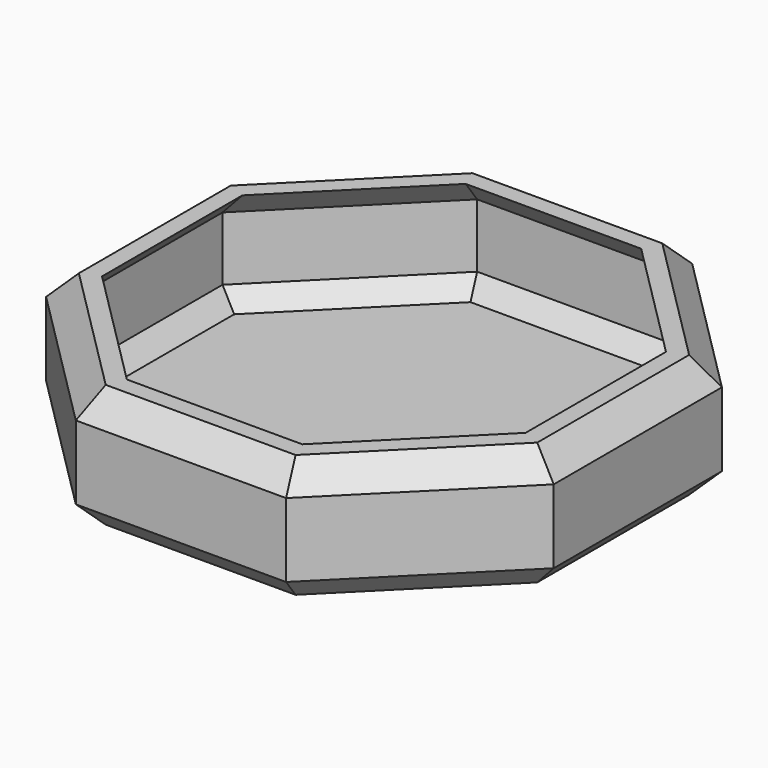
from build123d import *

# Parameters (mm, degrees)
F1_DEPTH = 25.4
F2_SIZE  = 5.08
F3_T     = -2.54


with BuildPart() as f1:
    # F0 (on Top) → F1 (new body)
    with BuildSketch(Plane.XY):
        Polygon((52.375846, -21.694786), (52.375846, 21.694786), (21.694786, 52.375846), (-21.694786, 52.375846), (-52.375846, 21.694786), (-52.375846, -21.694786), (-21.694786, -52.375846), (21.694786, -52.375846), align=None)
    extrude(amount=F1_DEPTH)

    # F2
    f2_edges = [f1.edges().sort_by_distance(p)[0] for p in [
        (37.035316, -37.035316, 25.4),
        (52.375846, 0, 25.4),
        (37.035316, 37.035316, 25.4),
        (0, 52.375846, 25.4),
        (-37.035316, 37.035316, 25.4),
        (-52.375846, 0, 25.4),
        (-37.035316, -37.035316, 25.4),
        (0, -52.375846, 25.4),
        (37.035316, -37.035316, 0),
        (52.375846, 0, 0),
        (37.035316, 37.035316, 0),
        (0, 52.375846, 0),
        (-37.035316, 37.035316, 0),
        (-52.375846, 0, 0),
        (-37.035316, -37.035316, 0),
        (0, -52.375846, 0),
    ]]
    chamfer(f2_edges, length=F2_SIZE)

    # F3
    f3_openings = [f1.faces().sort_by_distance(p)[0] for p in [
        (0, 0, 25.4),
    ]]
    offset(amount=F3_T, openings=f3_openings)


solid = f1.part
